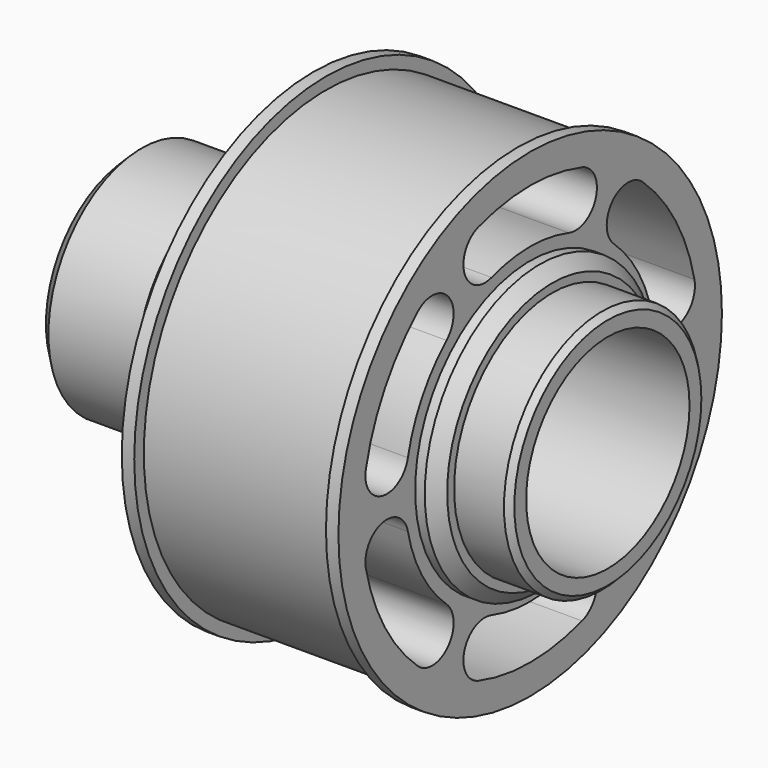
from build123d import *

# Parameters (mm, degrees)
F3_DEPTH  = 6.86
F4_SIZE   = 0.13
F5_SIZE   = 0.06
F6_SIZE   = 0.03
F8_DEPTH  = 6.79
F10_DEPTH = 14.1


with BuildPart() as f1:
    # F0 (on Top) → F1 (revolve)
    with BuildSketch(Plane.XY):
        Polygon((-33.448007, 1.065), (-29.198007, 1.065), (-29.198007, 1.27955), (-29.778007, 1.27955), (-29.778007, 1.5), (-30.008007, 1.5), (-30.008007, 2.5), (-30.138007, 2.5), (-30.138007, 2.375), (-32.138007, 2.375), (-32.138007, 2.5), (-32.268007, 2.5), (-32.268007, 1.5), (-32.491007, 1.5), (-32.491007, 1.27955), (-33.111007, 1.27955), (-33.111007, 1.215), (-34.191007, 1.215), (-34.191007, 0), (-33.448007, 0), align=None)
    revolve(axis=Axis((-33.819507, 0, 0), (1, 0, 0)))

    # F2 (on face) → F3 (cut)
    with BuildSketch(Plane(origin=(-34.191007, 0, 0), x_dir=(0, -1, 0), z_dir=(-1, 0, 0))):
        with BuildLine():
            Line((-0.07875, 0.268), (-0.07875, 0.180575))
            ThreePointArc((-0.07875, 0.180575), (0, -0.197), (0.07875, 0.180575))
            Line((0.07875, 0.180575), (0.07875, 0.268))
            Line((0.07875, 0.268), (0, 0.268))
            Line((0, 0.268), (-0.07875, 0.268))
        make_face()
    extrude(amount=-F3_DEPTH, mode=Mode.SUBTRACT)

    # F4
    f4_edges = [f1.edges().sort_by_distance(p)[0] for p in [
        (-34.191007, -1.215, 0),
        (-32.491007, -1.5, 0),
        (-29.778007, -1.5, 0),
    ]]
    chamfer(f4_edges, length=F4_SIZE)

    # F5
    f5_edges = [f1.edges().sort_by_distance(p)[0] for p in [
        (-29.198007, -1.27955, 0),
    ]]
    chamfer(f5_edges, length=F5_SIZE)

    # F6
    f6_edges = [f1.edges().sort_by_distance(p)[0] for p in [
        (-33.111007, -1.27955, 0),
    ]]
    chamfer(f6_edges, length=F6_SIZE)

    # F7 (on face) → F8 (cut)
    with BuildSketch(Plane(origin=(-32.268007, 0, 0), x_dir=(0, -1, 0), z_dir=(-1, 0, 0))):
        with BuildLine():
            ThreePointArc((-0.503698, 1.550222), (0, 1.63), (0.503698, 1.550222))
            ThreePointArc((0.503698, 1.550222), (0.856518, 1.729993), (0.676747, 2.082814))
            ThreePointArc((0.676747, 2.082814), (0, 2.19), (-0.676747, 2.082814))
            ThreePointArc((-0.676747, 2.082814), (-0.856518, 1.729993), (-0.503698, 1.550222))
        make_face()
        with BuildLine():
            ThreePointArc((-1.594381, 0.338896), (-1.411621, 0.815), (-1.090683, 1.211326))
            ThreePointArc((-1.090683, 1.211326), (-1.069959, 1.606763), (-1.465396, 1.627487))
            ThreePointArc((-1.465396, 1.627487), (-1.896596, 1.095), (-2.142143, 0.455327))
            ThreePointArc((-2.142143, 0.455327), (-1.926477, 0.12323), (-1.594381, 0.338896))
        make_face()
        with BuildLine():
            ThreePointArc((-1.090683, -1.211326), (-1.411621, -0.815), (-1.594381, -0.338896))
            ThreePointArc((-1.594381, -0.338896), (-1.926477, -0.12323), (-2.142143, -0.455327))
            ThreePointArc((-2.142143, -0.455327), (-1.896596, -1.095), (-1.465396, -1.627487))
            ThreePointArc((-1.465396, -1.627487), (-1.069959, -1.606763), (-1.090683, -1.211326))
        make_face()
        with BuildLine():
            ThreePointArc((0.503698, -1.550222), (0, -1.63), (-0.503698, -1.550222))
            ThreePointArc((-0.503698, -1.550222), (-0.856518, -1.729993), (-0.676747, -2.082814))
            ThreePointArc((-0.676747, -2.082814), (0, -2.19), (0.676747, -2.082814))
            ThreePointArc((0.676747, -2.082814), (0.856518, -1.729993), (0.503698, -1.550222))
        make_face()
        with BuildLine():
            ThreePointArc((1.594381, -0.338896), (1.411621, -0.815), (1.090683, -1.211326))
            ThreePointArc((1.090683, -1.211326), (1.069959, -1.606763), (1.465396, -1.627487))
            ThreePointArc((1.465396, -1.627487), (1.896596, -1.095), (2.142143, -0.455327))
            ThreePointArc((2.142143, -0.455327), (1.926477, -0.12323), (1.594381, -0.338896))
        make_face()
        with BuildLine():
            ThreePointArc((1.090683, 1.211326), (1.411621, 0.815), (1.594381, 0.338896))
            ThreePointArc((1.594381, 0.338896), (1.926477, 0.12323), (2.142143, 0.455327))
            ThreePointArc((2.142143, 0.455327), (1.896596, 1.095), (1.465396, 1.627487))
            ThreePointArc((1.465396, 1.627487), (1.069959, 1.606763), (1.090683, 1.211326))
        make_face()
    extrude(amount=-F8_DEPTH, mode=Mode.SUBTRACT)

    # F9 (on face) → F10 (cut)
    with BuildSketch(Plane(origin=(-32.268007, 0, 0), x_dir=(0, -1, 0), z_dir=(-1, 0, 0))):
        with BuildLine():
            ThreePointArc((-1.594381, 0.338896), (-1.411621, 0.815), (-1.090683, 1.211326))
            ThreePointArc((-1.090683, 1.211326), (-1.069959, 1.606763), (-1.465396, 1.627487))
            ThreePointArc((-1.465396, 1.627487), (-1.896596, 1.095), (-2.142143, 0.455327))
            ThreePointArc((-2.142143, 0.455327), (-1.926477, 0.12323), (-1.594381, 0.338896))
        make_face()
        with BuildLine():
            ThreePointArc((-2.142143, -0.455327), (-1.896596, -1.095), (-1.465396, -1.627487))
            ThreePointArc((-1.465396, -1.627487), (-1.069959, -1.606763), (-1.090683, -1.211326))
            ThreePointArc((-1.090683, -1.211326), (-1.411621, -0.815), (-1.594381, -0.338896))
            ThreePointArc((-1.594381, -0.338896), (-1.926477, -0.12323), (-2.142143, -0.455327))
        make_face()
        with BuildLine():
            ThreePointArc((-0.676747, -2.082814), (0, -2.19), (0.676747, -2.082814))
            ThreePointArc((0.676747, -2.082814), (0.856518, -1.729993), (0.503698, -1.550222))
            ThreePointArc((0.503698, -1.550222), (0, -1.63), (-0.503698, -1.550222))
            ThreePointArc((-0.503698, -1.550222), (-0.856518, -1.729993), (-0.676747, -2.082814))
        make_face()
        with BuildLine():
            ThreePointArc((1.465396, -1.627487), (1.896596, -1.095), (2.142143, -0.455327))
            ThreePointArc((2.142143, -0.455327), (1.926477, -0.12323), (1.594381, -0.338896))
            ThreePointArc((1.594381, -0.338896), (1.411621, -0.815), (1.090683, -1.211326))
            ThreePointArc((1.090683, -1.211326), (1.069959, -1.606763), (1.465396, -1.627487))
        make_face()
        with BuildLine():
            ThreePointArc((2.142143, 0.455327), (1.896596, 1.095), (1.465396, 1.627487))
            ThreePointArc((1.465396, 1.627487), (1.069959, 1.606763), (1.090683, 1.211326))
            ThreePointArc((1.090683, 1.211326), (1.411621, 0.815), (1.594381, 0.338896))
            ThreePointArc((1.594381, 0.338896), (1.926477, 0.12323), (2.142143, 0.455327))
        make_face()
        with BuildLine():
            ThreePointArc((-0.503698, 1.550222), (0, 1.63), (0.503698, 1.550222))
            ThreePointArc((0.503698, 1.550222), (0.856518, 1.729993), (0.676747, 2.082814))
            ThreePointArc((0.676747, 2.082814), (0, 2.19), (-0.676747, 2.082814))
            ThreePointArc((-0.676747, 2.082814), (-0.856518, 1.729993), (-0.503698, 1.550222))
        make_face()
    extrude(amount=-F10_DEPTH, mode=Mode.SUBTRACT)


solid = f1.part
